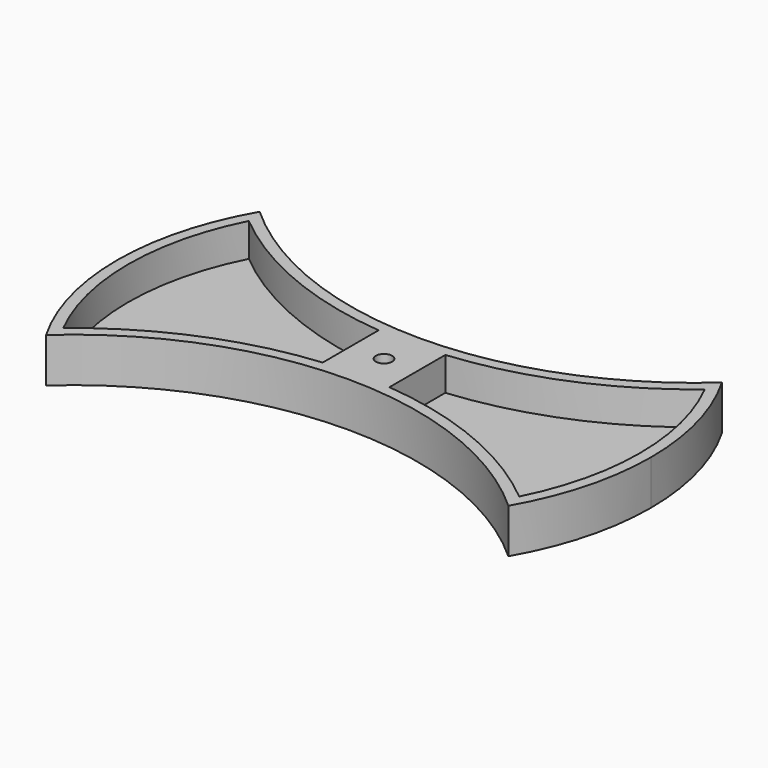
from build123d import *

# Parameters (mm, degrees)
F1_DEPTH = 25.4
F3_DEPTH = 19.05
F4_R     = 4.6355
F5_DEPTH = 25.4


with BuildPart() as f1:
    # F0 (on Top) → F1 (new body)
    with BuildSketch(Plane.XY):
        with BuildLine():
            ThreePointArc((131.9822715367, -76.2), (147.2070959265, -39.4440224736), (152.4, 0))
            ThreePointArc((152.4, 0), (147.2070959265, 39.4440224736), (131.9822715368, 76.2))
            ThreePointArc((131.9822715367, 76.2), (70.7106074079, 38.5384530031), (0, 25.4))
            ThreePointArc((0, 25.4), (-70.7106074079, 38.5384530031), (-131.9822715367, 76.2))
            ThreePointArc((-131.9822715368, 76.2), (-152.4, 0), (-131.9822715367, -76.2))
            ThreePointArc((-131.9822715367, -76.2), (0, -25.4), (131.9822715367, -76.2))
        make_face()
    extrude(amount=F1_DEPTH)

    # F2 (on face) → F3 (cut)
    with BuildSketch(Plane.XY.offset(25.4)):
        with BuildLine():
            ThreePointArc((-19.05, 19.9449395097), (-78.1175048106, 34.6656311359), (-130.1742098035, 66.2214285714))
            ThreePointArc((-130.1742098035, 66.2214285714), (-146.05, 0), (-130.1742098035, -66.2214285714))
            ThreePointArc((-130.1742098035, -66.2214285714), (-78.1175048106, -34.6656311359), (-19.05, -19.9449395097))
            Line((-19.05, -19.9449395097), (-19.05, 0))
            Line((-19.05, 0), (-19.05, 19.9449395097))
        make_face()
        with BuildLine():
            ThreePointArc((19.05, -19.9449395097), (78.1175048106, -34.6656311359), (130.1742098035, -66.2214285714))
            ThreePointArc((130.1742098035, -66.2214285714), (146.05, 0), (130.1742098035, 66.2214285714))
            ThreePointArc((130.1742098035, 66.2214285714), (78.1175048106, 34.6656311359), (19.05, 19.9449395097))
            Line((19.05, 19.9449395097), (19.05, 0))
            Line((19.05, 0), (19.05, -19.9449395097))
        make_face()
    extrude(amount=-F3_DEPTH, mode=Mode.SUBTRACT)

    # F4 (on face) → F5 (cut, through all)
    with BuildSketch(Plane.XY.offset(25.4)):
        Circle(F4_R)
    extrude(amount=-F5_DEPTH, mode=Mode.SUBTRACT)


solid = f1.part
